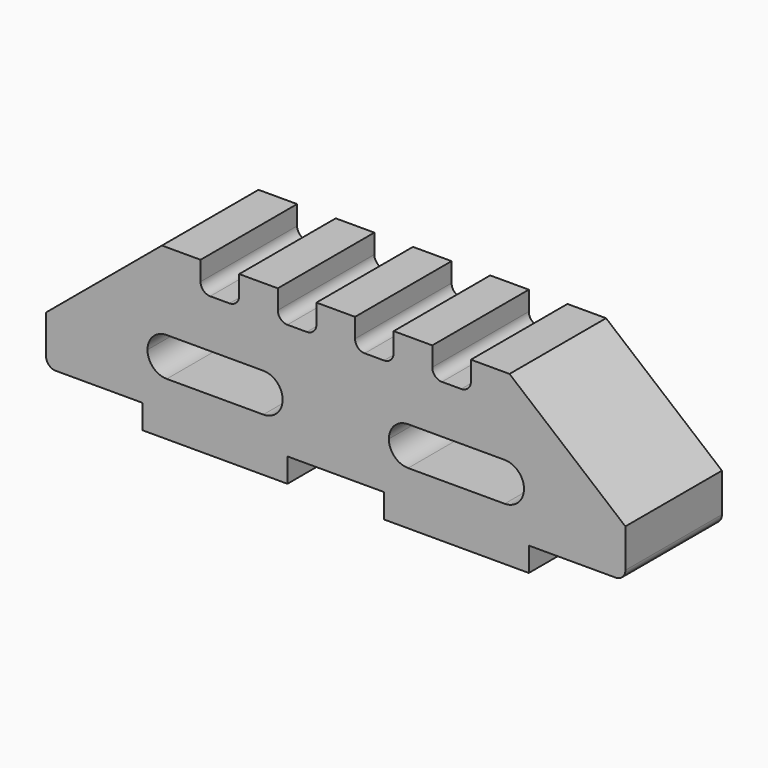
from build123d import *

# Parameters (mm, degrees)
F1_DEPTH = 25


with BuildPart() as f1:
    # F0 (on Front) → F1 (new body)
    with BuildSketch(Plane.XZ):
        with BuildLine():
            ThreePointArc((-225.4685461521, -62.0369579196), (-224.8827597145, -63.451171482), (-223.4685461521, -64.0369579196))
            Line((-223.4685461521, -64.0369579196), (-205.4685461521, -64.0369579196))
            Line((-205.4685461521, -64.0369579196), (-205.4685461521, -69.0369579196))
            Line((-205.4685461521, -69.0369579196), (-175.4685461521, -69.0369579196))
            Line((-175.4685461521, -69.0369579196), (-175.4685461521, -64.0369579196))
            Line((-175.4685461521, -64.0369579196), (-165.4685461521, -64.0369579196))
            Line((-165.4685461521, -64.0369579196), (-165.4685461521, -54.0369579196))
            Line((-165.4685461521, -54.0369579196), (-165.4685461521, -34.0369579196))
            Line((-165.4685461521, -34.0369579196), (-169.4685461521, -34.0369579196))
            Line((-169.4685461521, -34.0369579196), (-169.4685461521, -38.0369579196))
            ThreePointArc((-169.4685461521, -38.0369579196), (-170.0543325897, -39.451171482), (-171.4685461521, -40.0369579196))
            Line((-171.4685461521, -40.0369579196), (-175.4685461521, -40.0369579196))
            ThreePointArc((-175.4685461521, -40.0369579196), (-176.8827597145, -39.451171482), (-177.4685461521, -38.0369579196))
            Line((-177.4685461521, -38.0369579196), (-177.4685461521, -34.0369579196))
            Line((-177.4685461521, -34.0369579196), (-185.4685461521, -34.0369579196))
            Line((-185.4685461521, -34.0369579196), (-185.4685461521, -38.0369579196))
            ThreePointArc((-185.4685461521, -38.0369579196), (-186.0543325897, -39.451171482), (-187.4685461521, -40.0369579196))
            Line((-187.4685461521, -40.0369579196), (-191.4685461521, -40.0369579196))
            ThreePointArc((-191.4685461521, -40.0369579196), (-192.8827597145, -39.451171482), (-193.4685461521, -38.0369579196))
            Line((-193.4685461521, -38.0369579196), (-193.4685461521, -34.0369579196))
            Line((-193.4685461521, -34.0369579196), (-201.4685461521, -34.0369579196))
            Line((-201.4685461521, -34.0369579196), (-225.4685461521, -54.0369579196))
            Line((-225.4685461521, -54.0369579196), (-225.4685461521, -62.0369579196))
        make_face()
        with BuildLine():
            ThreePointArc((-180.4685461521, -50.0369579196), (-177.6401190274, -51.2085307949), (-176.4685461521, -54.0369579196))
            ThreePointArc((-176.4685461521, -54.0369579196), (-177.6401190274, -56.8653850443), (-180.4685461521, -58.0369579196))
            Line((-180.4685461521, -58.0369579196), (-200.4685461521, -58.0369579196))
            ThreePointArc((-200.4685461521, -58.0369579196), (-203.2969732769, -56.8653850443), (-204.4685461521, -54.0369579196))
            ThreePointArc((-204.4685461521, -54.0369579196), (-203.2969732769, -51.2085307949), (-200.4685461521, -50.0369579196))
            Line((-200.4685461521, -50.0369579196), (-180.4685461521, -50.0369579196))
        make_face(mode=Mode.SUBTRACT)
        with BuildLine():
            Line((-165.4685461521, -34.0369579196), (-165.4685461521, -54.0369579196))
            Line((-165.4685461521, -54.0369579196), (-154.4685461521, -54.0369579196))
            ThreePointArc((-154.4685461521, -54.0369579196), (-153.2969732769, -51.2085307949), (-150.4685461521, -50.0369579196))
            Line((-150.4685461521, -50.0369579196), (-130.4685461521, -50.0369579196))
            ThreePointArc((-130.4685461521, -50.0369579196), (-127.6401190274, -51.2085307949), (-126.4685461521, -54.0369579196))
            ThreePointArc((-126.4685461521, -54.0369579196), (-127.6401190274, -56.8653850443), (-130.4685461521, -58.0369579196))
            Line((-130.4685461521, -58.0369579196), (-140.4685461521, -58.0369579196))
            Line((-140.4685461521, -58.0369579196), (-140.4685461521, -69.0369579196))
            Line((-140.4685461521, -69.0369579196), (-125.4685461521, -69.0369579196))
            Line((-125.4685461521, -69.0369579196), (-125.4685461521, -64.0369579196))
            Line((-125.4685461521, -64.0369579196), (-107.4685461521, -64.0369579196))
            ThreePointArc((-107.4685461521, -64.0369579196), (-106.0543325897, -63.451171482), (-105.4685461521, -62.0369579196))
            Line((-105.4685461521, -62.0369579196), (-105.4685461521, -54.0369579196))
            Line((-105.4685461521, -54.0369579196), (-129.4685461521, -34.0369579196))
            Line((-129.4685461521, -34.0369579196), (-137.4685461521, -34.0369579196))
            Line((-137.4685461521, -34.0369579196), (-137.4685461521, -38.0369579196))
            ThreePointArc((-137.4685461521, -38.0369579196), (-138.0543325897, -39.451171482), (-139.4685461521, -40.0369579196))
            Line((-139.4685461521, -40.0369579196), (-143.4685461521, -40.0369579196))
            ThreePointArc((-143.4685461521, -40.0369579196), (-144.8827597145, -39.451171482), (-145.4685461521, -38.0369579196))
            Line((-145.4685461521, -38.0369579196), (-145.4685461521, -34.0369579196))
            Line((-145.4685461521, -34.0369579196), (-153.4685461521, -34.0369579196))
            Line((-153.4685461521, -34.0369579196), (-153.4685461521, -38.0369579196))
            ThreePointArc((-153.4685461521, -38.0369579196), (-154.0543325897, -39.451171482), (-155.4685461521, -40.0369579196))
            Line((-155.4685461521, -40.0369579196), (-159.4685461521, -40.0369579196))
            ThreePointArc((-159.4685461521, -40.0369579196), (-160.8827597145, -39.451171482), (-161.4685461521, -38.0369579196))
            Line((-161.4685461521, -38.0369579196), (-161.4685461521, -34.0369579196))
            Line((-161.4685461521, -34.0369579196), (-165.4685461521, -34.0369579196))
        make_face()
        with BuildLine():
            Line((-165.4685461521, -54.0369579196), (-165.4685461521, -64.0369579196))
            Line((-165.4685461521, -64.0369579196), (-155.4685461521, -64.0369579196))
            Line((-155.4685461521, -64.0369579196), (-155.4685461521, -69.0369579196))
            Line((-155.4685461521, -69.0369579196), (-140.4685461521, -69.0369579196))
            Line((-140.4685461521, -69.0369579196), (-140.4685461521, -58.0369579196))
            Line((-140.4685461521, -58.0369579196), (-150.4685461521, -58.0369579196))
            ThreePointArc((-150.4685461521, -58.0369579196), (-153.2969732769, -56.8653850443), (-154.4685461521, -54.0369579196))
            Line((-154.4685461521, -54.0369579196), (-165.4685461521, -54.0369579196))
        make_face()
    extrude(amount=F1_DEPTH)


solid = f1.part
